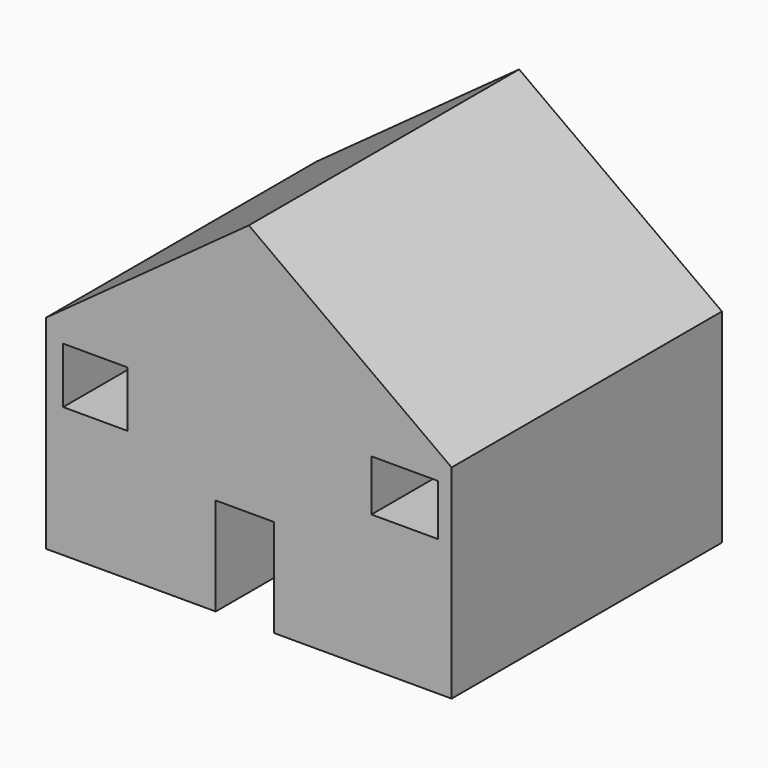
from build123d import *

# Parameters (mm, degrees)
F0_W     = 24.109941
F0_H     = 20.99898
F0_W_2   = 25.082123
F0_H_2   = 19.249064
F1_DEPTH = 127


with BuildPart() as f1:
    # F0 (on Front) → F1 (new body)
    with BuildSketch(Plane.XZ):
        Polygon((0, 55.316757), (-76.218516, 0), (76.218523, 0), align=None)
        Polygon((76.218523, 0), (-76.218516, 0), (-76.218516, -76.510169), (-12.443839, -76.510169), (-12.443839, -39.761957), (9.527314, -39.761957), (9.527314, -76.510169), (76.218523, -76.510169), align=None)
        with Locations((-57.747194, -17.013062)):
            Rectangle(F0_W, F0_H, mode=Mode.SUBTRACT)
        with Locations((58.622153, -15.749234)):
            Rectangle(F0_W_2, F0_H_2, mode=Mode.SUBTRACT)
    extrude(amount=F1_DEPTH)


solid = f1.part
